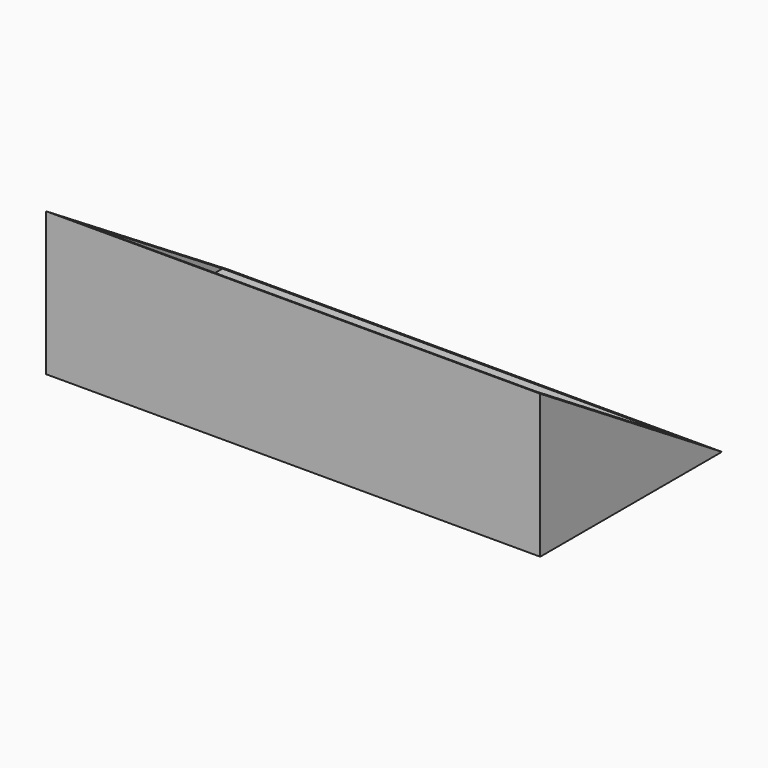
from build123d import *

# Parameters (mm, degrees)
F1_DEPTH = 124
F3_START = -5
F2_W     = 114
F2_H     = 52
F3_DEPTH = 31.001
F4_SIZE  = 25


with BuildPart() as f1:
    # F0 (on Right) → F1 (new body)
    with BuildSketch(Plane.YZ):
        Polygon((-20, 36), (-20, 0), (37, 0), align=None)
    extrude(amount=F1_DEPTH)

    # F2 (on face) → F3 (cut)
    with BuildSketch(Plane(origin=(0, 0, 0), x_dir=(1, 0, 0), z_dir=(0, 0, -1)).offset(F3_START)):
        with Locations((62, -11)):
            Rectangle(F2_W, F2_H)
    extrude(amount=-F3_DEPTH, mode=Mode.SUBTRACT)

    # F4
    f4_edges = [f1.edges().sort_by_distance(p)[0] for p in [
        (62, -15, 5),
    ]]
    chamfer(f4_edges, length=F4_SIZE)


solid = f1.part
